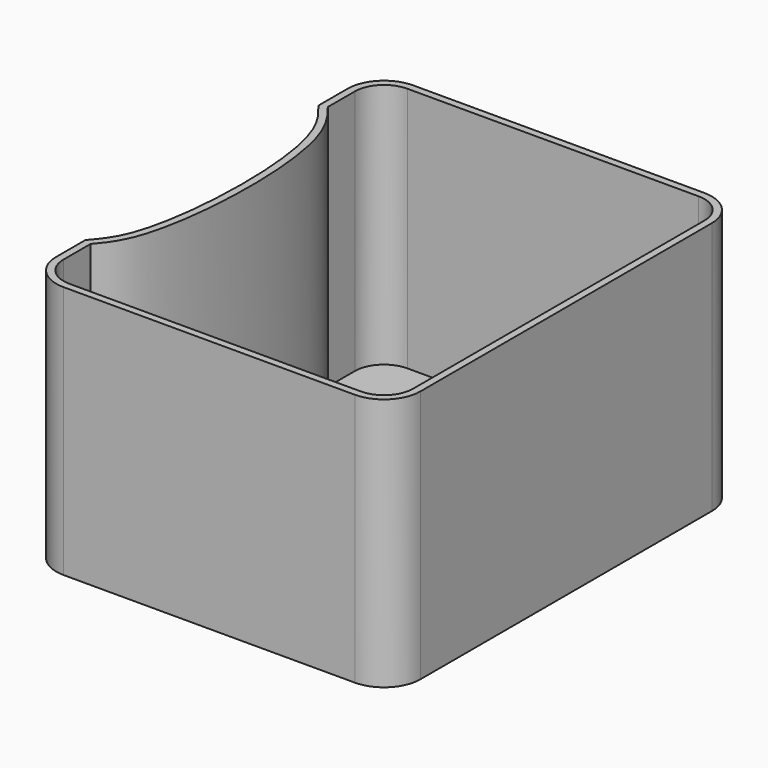
from build123d import *

# Parameters (mm, degrees)
F1_DEPTH = 88.392
F2_T     = -2.54


with BuildPart() as f1:
    # F0 (on Top) → F1 (new body)
    with BuildSketch(Plane.XY):
        with BuildLine():
            ThreePointArc((63.5, 63.5), (59.7802561211, 72.4802561211), (50.8, 76.2))
            Line((50.8, 76.2), (-50.8, 76.2))
            ThreePointArc((-50.8, 76.2), (-59.7802561211, 72.4802561211), (-63.5, 63.5))
            Line((-63.5, 63.5), (-63.5, 50.8))
            add(Edge.make_bspline(
                [(-63.5, 50.8), (-60.6119109772, 47.215711267), (-53.1188491789, 37.9163798517), (-49.071593194, 0.1891146199), (-54.0198395986, -39.7929429467), (-60.9757421936, -47.8691793687), (-63.5, -50.8)],
                knots=[0, 0, 0, 0, 0.1938164107, 0.5028509619, 0.819587419, 1, 1, 1, 1], degree=3))
            Line((-63.5, -50.8), (-63.5, -63.5))
            ThreePointArc((-63.5, -63.5), (-59.7802561211, -72.4802561211), (-50.8, -76.2))
            Line((-50.8, -76.2), (50.8, -76.2))
            ThreePointArc((50.8, -76.2), (59.7802561211, -72.4802561211), (63.5, -63.5))
            Line((63.5, -63.5), (63.5, 63.5))
        make_face()
    extrude(amount=F1_DEPTH)

    # F2
    f2_openings = [f1.faces().sort_by_distance(p)[0] for p in [
        (3.091409, -0.011581, 88.392),
    ]]
    offset(amount=F2_T, openings=f2_openings, kind=Kind.INTERSECTION)


solid = f1.part
